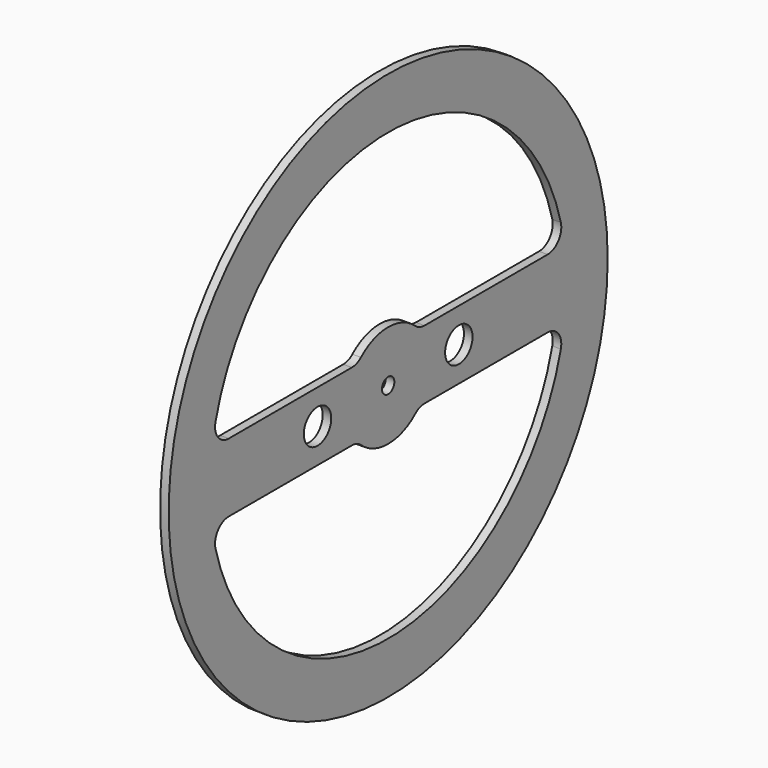
from build123d import *

# Parameters (mm, degrees)
F0_R     = 80
F0_R_2   = 5
F0_R_3   = 2.25
F1_DEPTH = 2.5
F2_R     = 5


with BuildPart() as f1:
    # F0 (on Right) → F1 (new body)
    with BuildSketch(Plane.YZ):
        Circle(F0_R)
        with BuildLine():
            ThreePointArc((-64.226163, 10), (0, 65), (64.226163, 10))
            ThreePointArc((64.226163, 10), (64.806252, 5.014948), (65, 0))
            ThreePointArc((65, 0), (64.806252, -5.014948), (64.226163, -10))
            ThreePointArc((64.226163, -10), (0, -65), (-64.226163, -10))
            ThreePointArc((-64.226163, -10), (-65, 0), (-64.226163, 10))
        make_face(mode=Mode.SUBTRACT)
        with BuildLine():
            ThreePointArc((-11.18034, -10), (-15, 0), (-11.18034, 10))
            Line((-11.18034, 10), (-64.226163, 10))
            ThreePointArc((-64.226163, 10), (-65, 0), (-64.226163, -10))
            Line((-64.226163, -10), (-11.18034, -10))
        make_face()
        with Locations((-25.75, 0)):
            Circle(F0_R_2, mode=Mode.SUBTRACT)
        with BuildLine():
            ThreePointArc((11.18034, -10), (14.012585, -5.352331), (15, 0))
            ThreePointArc((15, 0), (14.012585, 5.352331), (11.18034, 10))
            ThreePointArc((11.18034, 10), (0, 15), (-11.18034, 10))
            ThreePointArc((-11.18034, 10), (-15, 0), (-11.18034, -10))
            ThreePointArc((-11.18034, -10), (0, -15), (11.18034, -10))
        make_face()
        Circle(F0_R_3, mode=Mode.SUBTRACT)
        with BuildLine():
            ThreePointArc((11.18034, 10), (14.012585, 5.352331), (15, 0))
            ThreePointArc((15, 0), (14.012585, -5.352331), (11.18034, -10))
            Line((11.18034, -10), (64.226163, -10))
            ThreePointArc((64.226163, -10), (64.806252, -5.014948), (65, 0))
            ThreePointArc((65, 0), (64.806252, 5.014948), (64.226163, 10))
            Line((64.226163, 10), (11.18034, 10))
        make_face()
        with Locations((25.75, 0)):
            Circle(F0_R_2, mode=Mode.SUBTRACT)
    extrude(amount=F1_DEPTH)

    # F2
    f2_edges = [f1.edges().sort_by_distance(p)[0] for p in [
        (1.25, -64.226163, 10),
        (1.25, -11.18034, 10),
        (1.25, 11.18034, 10),
        (1.25, 64.226163, 10),
        (1.25, 64.226163, -10),
        (1.25, 11.18034, -10),
        (1.25, -11.18034, -10),
        (1.25, -64.226163, -10),
    ]]
    fillet(f2_edges, radius=F2_R)


solid = f1.part
